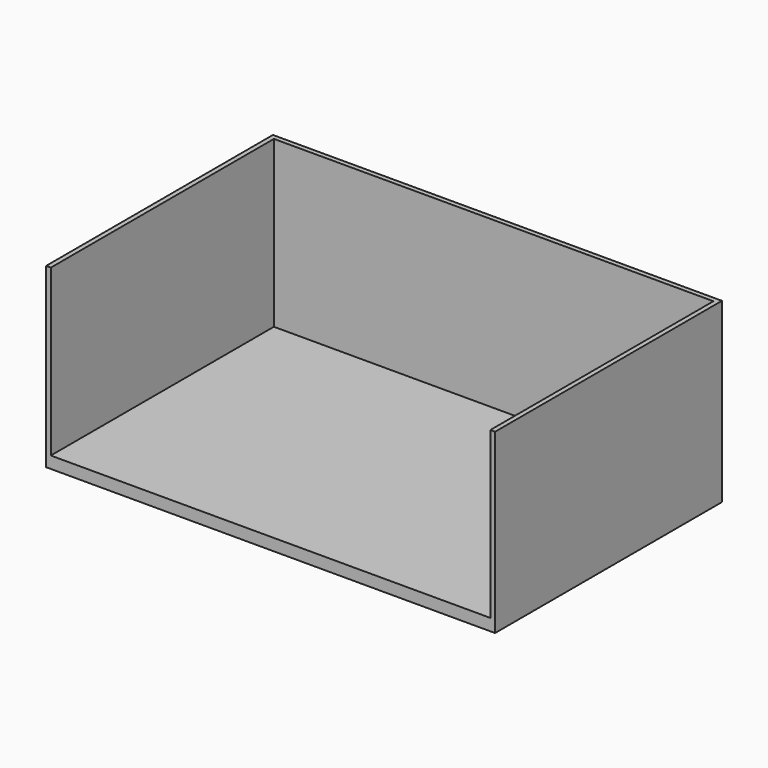
from build123d import *

# Parameters (mm, degrees)
F0_W     = 5791.2
F0_H     = 3657.6
F1_DEPTH = 152.4
F2_W     = 5791.2
F2_H     = 60.96
F3_DEPTH = 2133.6
F4_W     = 60.96
F4_H     = 3596.64
F5_DEPTH = 2133.6


with BuildPart() as f1:
    # F0 (on Top) → F1 (new body)
    with BuildSketch(Plane.XY):
        with Locations((2.406314, 322.584287)):
            Rectangle(F0_W, F0_H)
    extrude(amount=F1_DEPTH)

    # F2 (on face) → F3 (join)
    with BuildSketch(Plane.XY.offset(152.4)):
        with Locations((2.406314, 2120.904287)):
            Rectangle(F2_W, F2_H)
    extrude(amount=F3_DEPTH)

    # F4 (on face) → F5 (join)
    with BuildSketch(Plane.XY.offset(152.4)):
        with Locations((-2862.713686, 292.104287)):
            Rectangle(F4_W, F4_H)
        with Locations((2867.526314, 292.104287)):
            Rectangle(F4_W, F4_H)
    extrude(amount=F5_DEPTH)


solid = f1.part
